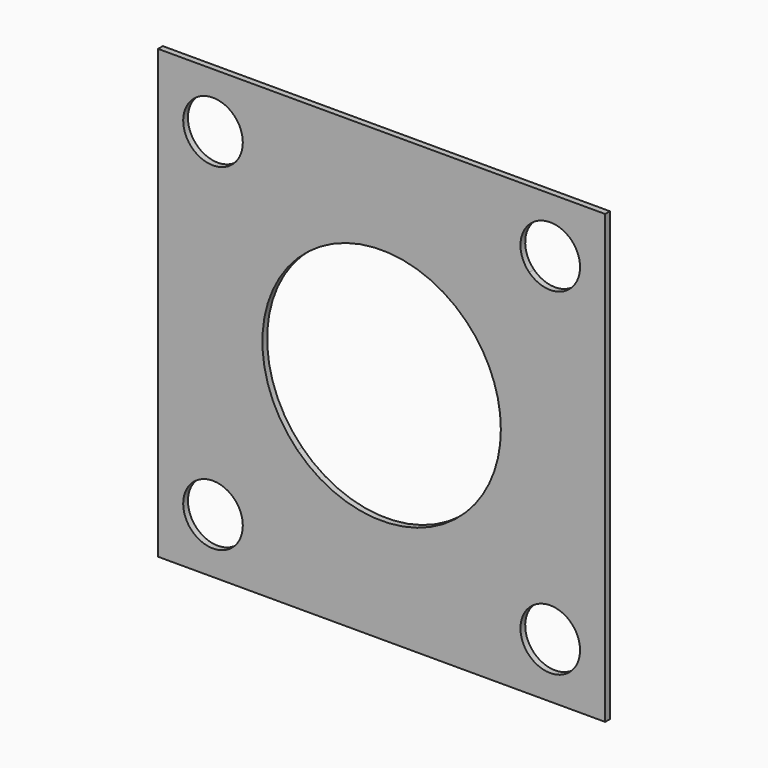
from build123d import *

# Parameters (mm, degrees)
F0_W     = 150
F0_H     = 150
F1_DEPTH = 2


with BuildPart() as f1:
    # F0 (on Front) → F1 (new body)
    with BuildSketch(Plane.XZ):
        Rectangle(F0_W, F0_H)
        with BuildLine():
            ThreePointArc((-46.568542, -56.568542), (-65.807338, -60.395377), (-49.497475, -49.497475))
            ThreePointArc((-49.497475, -49.497475), (-47.329747, -52.741708), (-46.568542, -56.568542))
        make_face(mode=Mode.SUBTRACT)
        with BuildLine():
            ThreePointArc((66.568542, -56.568542), (52.741708, -65.807338), (49.497475, -49.497475))
            ThreePointArc((49.497475, -49.497475), (60.395377, -47.329747), (66.568542, -56.568542))
        make_face(mode=Mode.SUBTRACT)
        with BuildLine():
            ThreePointArc((-46.568542, 56.568542), (-47.329747, 52.741708), (-49.497475, 49.497475))
            ThreePointArc((-49.497475, 49.497475), (-65.807338, 60.395377), (-46.568542, 56.568542))
        make_face(mode=Mode.SUBTRACT)
        with BuildLine():
            ThreePointArc((-28.284271, 28.284271), (0, 40), (28.284271, 28.284271))
            ThreePointArc((28.284271, 28.284271), (36.955181, 15.307337), (40, 0))
            ThreePointArc((40, 0), (36.955181, -15.307337), (28.284271, -28.284271))
            ThreePointArc((28.284271, -28.284271), (0, -40), (-28.284271, -28.284271))
            ThreePointArc((-28.284271, -28.284271), (-40, 0), (-28.284271, 28.284271))
        make_face(mode=Mode.SUBTRACT)
        with BuildLine():
            ThreePointArc((66.568542, 56.568542), (60.395377, 47.329747), (49.497475, 49.497475))
            ThreePointArc((49.497475, 49.497475), (52.741708, 65.807338), (66.568542, 56.568542))
        make_face(mode=Mode.SUBTRACT)
    extrude(amount=F1_DEPTH)


solid = f1.part
